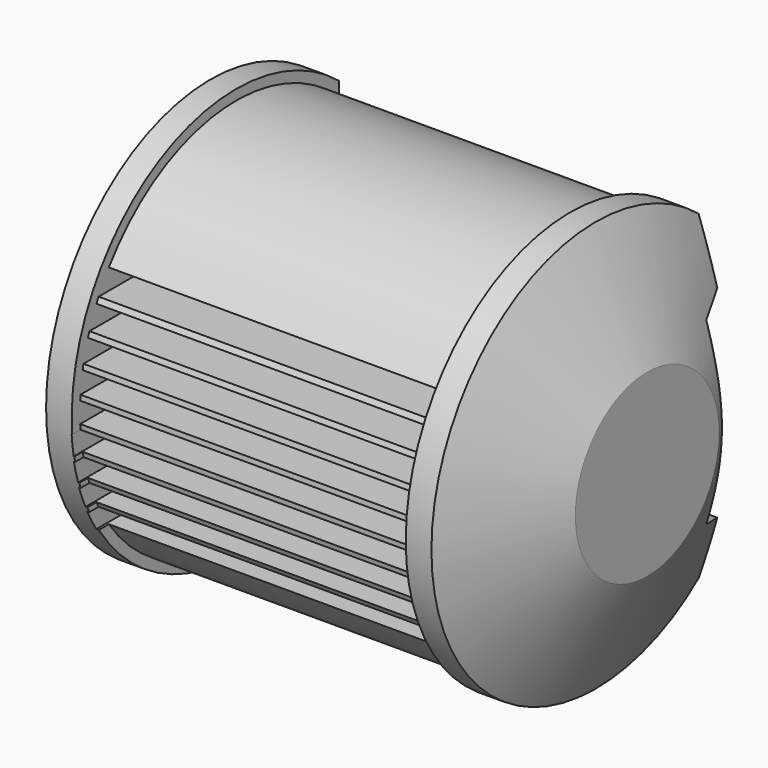
from build123d import *

# Parameters (mm, degrees)
F0_R      = 40
F2_R      = 17.5
F4_DEPTH  = 5
F8_R      = 40
F9_R      = 17.5
F11_DEPTH = 5
F12_R     = 38
F13_DEPTH = 65
F14_W     = 122.727232807
F14_H     = 276.1362824652
F15_DEPTH = 100
F17_DEPTH = 100
F18_W     = 65
F18_H     = 42.1838214056
F19_DEPTH = 8
F20_DEPTH = 1
F22_W     = 65
F22_H     = 4
F23_DEPTH = 20


with BuildPart() as f3:
    # F0 (on Right) → F3 section 0
    with BuildSketch(Plane.YZ):
        Circle(F0_R)
    # F2 (on offset) → F3 section 1
    with BuildSketch(Plane.YZ.offset(10)):
        Circle(F2_R)
    loft()

    # F0 (on Right) → F4 (join)
    with BuildSketch(Plane.YZ):
        Circle(F0_R)
    extrude(amount=-F4_DEPTH)



with BuildPart() as f10:
    # F8 (on offset) → F10 section 0
    with BuildSketch(Plane.YZ.offset(-75)):
        Circle(F8_R)
    # F9 (on offset) → F10 section 1
    with BuildSketch(Plane.YZ.offset(-85)):
        Circle(F9_R)
    loft()

    # F11 (add): a face of the model
    f11_faces = [f10.faces().sort_by_distance(p)[0] for p in [
        (-75, 0, 0),
    ]]
    extrude(f11_faces, amount=F11_DEPTH)


with BuildPart() as f3_1:
    add(f3.part)

    add(f10.part)  # F13 merges F10
    # F12 (on face) → F13 (join)
    with BuildSketch(Plane(origin=(-5, 0, 0), x_dir=(0, -1, 0), z_dir=(-1, 0, 0))):
        Circle(F12_R)
    extrude(amount=F13_DEPTH)

    # F14 (on face) → F15 (cut)
    with BuildSketch(Plane(origin=(-85, 0, 0), x_dir=(0, -1, 0), z_dir=(-1, 0, 0))):
        with Locations((-86.3636164035, -1.3918187469)):
            Rectangle(F14_W, F14_H)
    extrude(amount=-F15_DEPTH, mode=Mode.SUBTRACT)

    # F16 (on face) → F17 (cut)
    with BuildSketch(Plane(origin=(-85, 0, 0), x_dir=(0, -1, 0), z_dir=(-1, 0, 0))):
        Polygon((-19, 17.5), (-29.8822466855, 21.4608138755), (-29.8822466855, -21.4608138755), (-19, -17.5), align=None)
    extrude(amount=-F17_DEPTH, mode=Mode.SUBTRACT)

    # F18 (on face) → F19 (cut)
    with BuildSketch(Plane(origin=(0, 25, 0), x_dir=(-1, 0, 0), z_dir=(0, 1, 0))):
        with Locations((37.5, -1.4080892972)):
            Rectangle(F18_W, F18_H)
    extrude(amount=-F19_DEPTH, mode=Mode.SUBTRACT)


with BuildPart() as f20:
    # F20 (new): a face of the model
    f20_faces = [f3_1.part.faces().sort_by_distance(p)[0] for p in [
        (-37.5, 17, -1.4080892972),
    ]]
    extrude(f20_faces, amount=F20_DEPTH)


with BuildPart() as f3_2:
    add(f3_1.part)

    # F22 (on offset) → F23 (cut)
    with BuildSketch(Plane.XZ.offset(40)):
        with Locations((-37.5, 0)):
            Rectangle(F22_W, F22_H)
        with Locations((-37.5, 5)):
            Rectangle(F22_W, F22_H)
        with Locations((-37.5, 10)):
            Rectangle(F22_W, F22_H)
        with Locations((-37.5, 15)):
            Rectangle(F22_W, F22_H)
        with Locations((-37.5, 20)):
            Rectangle(F22_W, F22_H)
        with Locations((-37.6162476387, -4.998648466)):
            Rectangle(F22_W, F22_H)
        with Locations((-37.7324952775, -9.997296932)):
            Rectangle(F22_W, F22_H)
        with Locations((-37.8487429162, -14.995945398)):
            Rectangle(F22_W, F22_H)
        with Locations((-37.964990555, -19.9945938639)):
            Rectangle(F22_W, F22_H)
    extrude(amount=-F23_DEPTH, mode=Mode.SUBTRACT)


solid = Compound([f20.part, f3_2.part])
